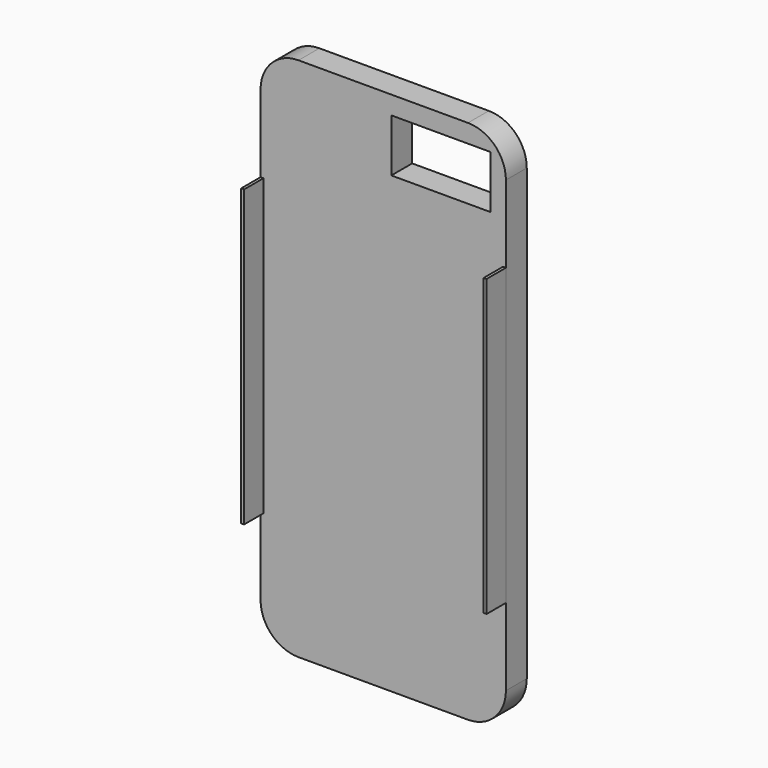
from build123d import *

# Parameters (mm, degrees)
F1_DEPTH = 6.858
F2_W     = 6.35
F2_H     = 77.5716
F3_DEPTH = 0.762
F4_W     = 6.35
F4_H     = 77.5716
F5_DEPTH = 0.762
F6_W     = 26.1247032322
F6_H     = 13.908110559
F7_DEPTH = 25
F9_DEPTH = 0.7


with BuildPart() as f1:
    # F0 (on Front) → F1 (new body)
    with BuildSketch(Plane.XZ):
        with BuildLine():
            Line((0, 0), (0, 59.1058))
            ThreePointArc((0, 59.1058), (-2.9237186888, 66.1642813112), (-9.9822, 69.088))
            Line((-9.9822, 69.088), (-54.5338, 69.088))
            ThreePointArc((-54.5338, 69.088), (-61.5922813112, 66.1642813112), (-64.516, 59.1058))
            Line((-64.516, 59.1058), (-64.516, -59.1058))
            ThreePointArc((-64.516, -59.1058), (-61.5922813112, -66.1642813112), (-54.5338, -69.088))
            Line((-54.5338, -69.088), (-9.9822, -69.088))
            ThreePointArc((-9.9822, -69.088), (-2.9237186888, -66.1642813112), (0, -59.1058))
            Line((0, -59.1058), (0, 0))
        make_face()
    extrude(amount=F1_DEPTH)

    # F4 (on face) → F5 (join)
    with BuildSketch(Plane(origin=(-64.516, 0, 0), x_dir=(0, -1, 0), z_dir=(-1, 0, 0))):
        with Locations((10.033, 0)):
            Rectangle(F4_W, F4_H)
    extrude(amount=-F5_DEPTH)

    # F6 (on face) → F7 (cut)
    with BuildSketch(Plane(origin=(0, 0, 0), x_dir=(-1, 0, 0), z_dir=(0, 1, 0))):
        with Locations((17.0623516161, 57.3239885271)):
            Rectangle(F6_W, F6_H)
    extrude(amount=-F7_DEPTH, mode=Mode.SUBTRACT)


with BuildPart() as f3:
    # F2 (on Right) → F3 (new body)
    with BuildSketch(Plane.YZ):
        with Locations((-10.033, 0)):
            Rectangle(F2_W, F2_H)
    extrude(amount=-F3_DEPTH)


with BuildPart() as f9:
    # F8 (on face) → F9 (new body)
    with BuildSketch(Plane(origin=(0, 0, 0), x_dir=(-1, 0, 0), z_dir=(0, 1, 0))):
        with BuildLine():
            add(Edge.make_bspline(
                [(32.3842018843, -11.3386316225), (32.0502285107, -12.0716243861), (31.9530861422, -16.1711675921), (33.0064452163, -15.603039907), (33.6290214848, -15.5141990604), (34.7751229777, -13.6562078064), (35.0088851811, -12.2111174266), (36.6136686973, -11.2175994653), (37.1555091824, -9.6667413693), (38.2549451163, -7.0611872269), (37.8720759651, -5.2573031806), (37.4540945913, -2.0540654524), (36.0876132583, -0.6102798911), (34.4460834797, 1.000984801), (35.8869302156, 1.3449940587), (36.3029845312, 2.581401017), (36.7114606974, 4.3490867598), (35.4808998003, 6.183419167), (35.8018471603, 7.2296738087), (32.7905787627, 7.6898053954), (34.7294581785, 8.620184185), (36.4517544932, 10.3697903403), (38.014815585, 12.0584155347), (38.7708958708, 14.5586477603), (38.1701421628, 16.6989494379), (36.9510486534, 18.0887855187), (35.5567684738, 18.8268904636), (33.9922909801, 18.9667053315), (32.17112464, 18.3522598756), (33.6432884204, 18.1690942228), (34.3670325766, 17.3656894144), (35.4718152266, 16.6345412674), (36.0752482355, 14.9189901779), (35.4562476951, 13.0969708264), (34.4394522959, 12.4446560551), (33.2472181944, 12.0651902852), (31.7419833744, 12.7626971392), (30.363954497, 14.3962770982), (28.571698173, 16.2481238843), (28.420894876, 17.1969167632), (27.5084198786, 18.7234015432), (27.3185198086, 16.886850644), (27.5508067813, 15.8032559722), (27.7122486146, 14.0507533679), (28.9904093714, 12.5541128047), (30.2196394191, 11.6350111398), (31.1783551258, 10.4014224299), (31.6106515715, 8.9563202385), (30.9318859078, 8.0535389387), (30.0844222167, 7.4493290481), (29.0401812953, 7.4849628801), (28.1623822909, 8.1405492344), (27.7554230833, 9.979955267), (27.6164696082, 11.4308762247), (26.7044122696, 12.7641061271), (25.1992061783, 13.5646221236), (23.9777078091, 14.1370733242), (21.4825885371, 13.6613972693), (23.2734844697, 13.6343824987), (24.1461355186, 12.7617705206), (25.1982709983, 11.8489337023), (25.8836403389, 10.2443191274), (25.9884422829, 8.2576895096), (24.974752816, 7.7665698723), (23.8716119427, 7.3909979048), (23.1991348296, 8.149497651), (22.8974494796, 9.7751966137), (22.1774683808, 8.6518032549), (22.2906810522, 7.5258284108), (22.9603699626, 6.2463509057), (24.9482981844, 5.4821812945), (27.0828386712, 5.6601537647), (28.2724976188, 5.7449101415), (28.9141852281, 4.9918948568), (28.5380349945, 4.1302021599), (27.6964280359, 4.2003928553), (27.0901217187, 4.4808068309), (27.0558749401, 3.7514113951), (27.7662821245, 3.5346728562), (27.9864417841, 3.0532980608), (28.8434289162, 3.3347405325), (29.3235481026, 1.6764643971), (27.8945008289, 2.1301500934), (27.5978758382, 1.7173252237), (25.0222968704, 0.1567938787), (25.6399483884, -0.8317457106), (24.7483181078, -1.5103061126), (23.3180253708, -2.8072279462), (21.7067633591, -6.1890173846), (24.3329320579, -7.3517591391), (25.5471996538, -6.7396988091), (26.0745730735, -7.579766765), (26.9194605064, -7.2334244477), (27.2818843674, -6.3370162199), (30.4808411043, -7.1754644199), (31.025643841, -6.165559133), (31.0457145316, -4.0030012545), (30.0605932324, -4.5829024795), (29.0661501389, -4.4998208906), (27.363726614, -3.9371617379), (26.5076910982, -5.8557589626), (24.4265433117, -5.166023423), (25.6972441944, -3.8729062416), (26.8863817217, -2.2496259387), (28.005766166, -2.1877435013), (27.5196180812, -0.9774358266), (28.3704015993, -0.5360342573), (29.5445944358, 1.0350125914), (30.6907097134, 0.4098108127), (31.1640203339, 1.3432186798), (31.1649976161, 2.1593096127), (30.7900625932, 2.9597142636), (31.5190814969, 3.9148332526), (33.4277788953, 5.8937870984), (33.9455608967, 4.1025333946), (33.8017770103, 2.5439666544), (32.361839507, 2.1350031991), (32.0042075978, -0.3194902777), (34.1902162875, -1.1926615373), (35.3551033801, -3.5692625528), (35.6618414931, -6.5290265974), (34.7806275409, -9.2787125193), (32.9900951815, -11.1991589974), (32.5094255108, -11.0637953051), (32.3842018843, -11.3386316225)],
                knots=[0, 0, 0, 0, 0.0143777079, 0.0195646415, 0.0250464127, 0.0349251258, 0.0434253426, 0.0523557059, 0.0613233707, 0.0726821429, 0.0822534913, 0.0943577668, 0.1046230024, 0.1136024962, 0.1202401572, 0.1279866828, 0.1372623895, 0.1472000225, 0.1535184617, 0.1632874673, 0.1707106735, 0.1820767171, 0.1926190195, 0.2035321285, 0.2136764975, 0.2229355359, 0.2314321049, 0.24056719, 0.2481769784, 0.2545015762, 0.2619829103, 0.2697910477, 0.27886722, 0.2881740208, 0.2956154789, 0.3030613062, 0.3115729416, 0.3219840353, 0.3328514501, 0.3401252726, 0.3473109374, 0.3547087911, 0.3625992674, 0.3715488642, 0.3811373075, 0.3897617079, 0.3984063023, 0.4065561211, 0.4135753045, 0.4205349747, 0.4272979128, 0.4342178047, 0.4435702135, 0.4520341209, 0.4605846, 0.4694406622, 0.4781040408, 0.4868505464, 0.4934689484, 0.5014792831, 0.509519269, 0.5187585266, 0.5280255148, 0.5349412049, 0.5419832332, 0.5487381743, 0.5562530985, 0.5622956022, 0.5698072186, 0.5778134555, 0.587710047, 0.5979549448, 0.6052951688, 0.6114761008, 0.6173824587, 0.6235272311, 0.6284633711, 0.633096865, 0.6388268732, 0.6434098972, 0.6491313423, 0.6562137237, 0.6629822271, 0.6682423158, 0.6796096816, 0.6857469581, 0.6922228848, 0.7022620955, 0.7145251798, 0.7246464286, 0.7321794773, 0.7381017517, 0.7439335831, 0.7501122806, 0.7618273041, 0.768740927, 0.7777366674, 0.7834569526, 0.7906066547, 0.7991327685, 0.8081806145, 0.8161781229, 0.8241544729, 0.834283557, 0.8403935987, 0.8469530264, 0.8534289533, 0.8626838135, 0.8694467581, 0.8756686528, 0.8820133256, 0.8879982097, 0.8956743874, 0.9058330597, 0.9134279192, 0.9218295189, 0.9296328114, 0.9392231645, 0.9491593972, 0.9601890606, 0.9720423636, 0.9840183861, 0.9946090651, 1, 1, 1, 1], degree=3))
        make_face()
    extrude(amount=F9_DEPTH)


solid = Compound([f1.part, f3.part, f9.part])
